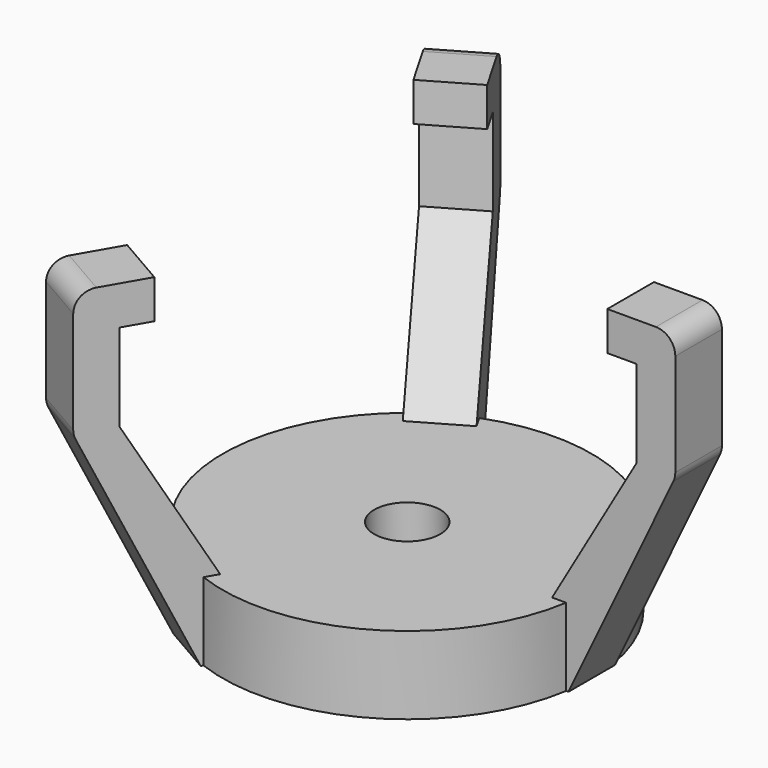
from build123d import *

# Parameters (mm, degrees)
CYLINDER001_R      = 1.7
CYLINDER001_DEPTH  = 10
CYLINDER_R         = 9.5
CYLINDER_DEPTH     = 4
PAD_DEPTH          = 1.5
POLARPATTERN_COUNT = 3
FILLET_R           = 1


with BuildPart() as boltcylinder:
    # Cylinder001 → Cylinder001 (new body)
    with BuildSketch(Plane.XY):
        Circle(CYLINDER001_R)
    extrude(amount=CYLINDER001_DEPTH)


with BuildPart() as basecylinder:
    # Cylinder → Cylinder (new body)
    with BuildSketch(Plane.XY):
        Circle(CYLINDER_R)
    extrude(amount=CYLINDER_DEPTH)


with BuildPart() as fillet_body:
    # Sketch → Pad (new body, symmetric)
    with BuildSketch(Plane.XZ):
        Polygon((0, 0), (0, 2), (7.5, 2), (13, 11.5), (13, 16), (11.5, 16), (11.5, 18), (15, 18), (15, 11.5), (9.5, 0), align=None)
    pad = extrude(amount=PAD_DEPTH, both=True)

    # PolarPattern: Pad ×3 about axis
    polarpattern_axis = Axis((0, 0, 0), (0, 0, 1))
    for i in range(1, POLARPATTERN_COUNT):
        add(pad.rotate(polarpattern_axis, i * 360 / POLARPATTERN_COUNT))

    # Fusion: union BaseCylinder
    add(basecylinder.part)

    # Cut: cut BoltCylinder
    add(boltcylinder.part, mode=Mode.SUBTRACT)

    # Fillet
    fillet_edges = [fillet_body.edges().sort_by_distance(p)[0] for p in [
        (-7.5, 12.990381, 11.5),
        (-7.5, 12.990381, 18),
        (-7.5, -12.990381, 11.5),
        (15, 0, 11.5),
        (-7.5, -12.990381, 18),
        (15, 0, 18),
    ]]
    fillet(fillet_edges, radius=FILLET_R)


solid = fillet_body.part
